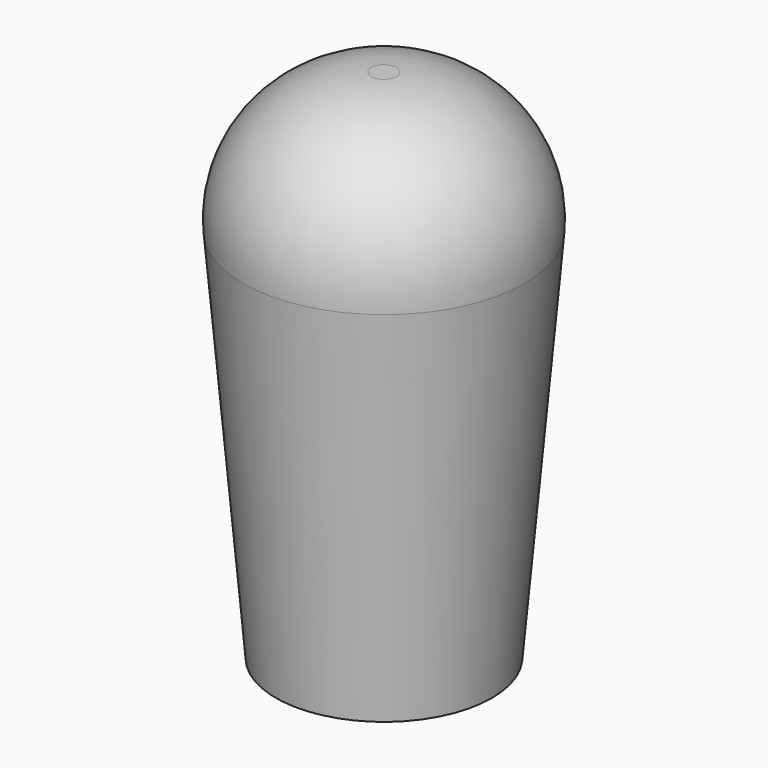
from build123d import *

# Parameters (mm, degrees)
F0_R     = 2.514559369
F1_DEPTH = 12
F1_TAPER = -5
F2_R     = 3
F4_D     = 3.3
F4_DEPTH = 9
F4_TIP   = 0.9914200214


with BuildPart() as f1:
    # F0 (on Top) → F1 (new body)
    with BuildSketch(Plane.XY):
        Circle(F0_R)
    extrude(amount=F1_DEPTH, taper=F1_TAPER)

    # F2
    f2_edges = [f1.edges().sort_by_distance(p)[0] for p in [
        (-3.564423, 0, 12),
    ]]
    fillet(f2_edges, radius=F2_R)

    # F4
    with Locations(Plane(origin=(0, 0, 0), x_dir=(1, 0, 0), z_dir=(0, 0, -1))):
        with Locations((0, 0)):
            Hole(F4_D / 2, depth=F4_DEPTH)
            with Locations((0, 0, -(F4_DEPTH + F4_TIP / 2))):  # 118° drill point
                Cone(0, F4_D / 2, F4_TIP, mode=Mode.SUBTRACT)


solid = f1.part
